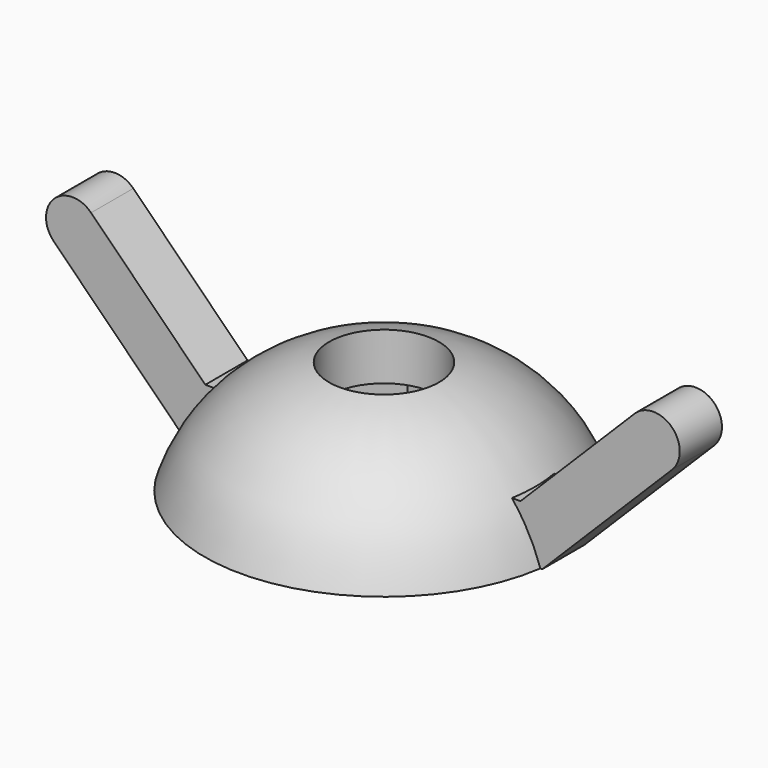
from build123d import *

# Parameters (mm, degrees)
F1_W     = 3.81
F1_H     = 1.905
F0_R     = 1.651
F3_DEPTH = 1.984375
F4_DEPTH = 6.35
F6_DEPTH = 0.79375


with BuildPart() as f2:
    # F1 (on Front) → F2 (revolve)
    with BuildSketch(Plane.XZ):
        with BuildLine():
            Line((3.81, 1.905), (3.81, 0))
            Line((3.81, 0), (5.3975, 0))
            ThreePointArc((5.3975, 0), (3.321495258, 2.7086744896), (0, 3.4925))
            Line((0, 3.4925), (0, 1.905))
            Line((0, 1.905), (3.81, 1.905))
        make_face()
        with Locations((1.905, 0.9525)):
            Rectangle(F1_W, F1_H)
    revolve(axis=Axis((0, 0, 2.69875), (0, 0, 1)))

    # F0 (on Top) → F3 (cut)
    with BuildSketch(Plane.XY):
        Polygon((1.8330871047, 3.175), (-1.8330871047, 3.175), (-3.6661742094, 0), (-1.8330871047, -3.175), (1.8330871047, -3.175), (3.6661742094, 0), align=None)
        Circle(F0_R, mode=Mode.SUBTRACT)
    extrude(amount=F3_DEPTH, mode=Mode.SUBTRACT)

    # F0 (on Top) → F4 (cut)
    with BuildSketch(Plane.XY):
        Circle(F0_R)
    extrude(amount=F4_DEPTH, mode=Mode.SUBTRACT)

    # F5 (on Front) → F6 (join, symmetric)
    with BuildSketch(Plane.XZ):
        Polygon((-5.3975, 0), (-3.81, 0), (-3.81, 1.5875), (-4.7399359697, 1.5875), (-8.1767540674, 5.0243180977), (-9.2992860825, 3.9017860825), align=None)
        with BuildLine():
            ThreePointArc((-8.1767540674, 5.0243180977), (-9.2992860825, 5.0243180977), (-9.2992860825, 3.9017860825))
            Line((-9.2992860825, 3.9017860825), (-8.1767540674, 5.0243180977))
        make_face()
        Polygon((3.81, 1.5875), (3.81, 0), (5.3975, 0), (9.2992860825, 3.9017860825), (8.1767540674, 5.0243180977), (4.7399359697, 1.5875), align=None)
        with BuildLine():
            Line((8.1767540674, 5.0243180977), (9.2992860825, 3.9017860825))
            ThreePointArc((9.2992860825, 3.9017860825), (9.2992860825, 5.0243180977), (8.1767540674, 5.0243180977))
        make_face()
    extrude(amount=F6_DEPTH, both=True)


solid = f2.part
